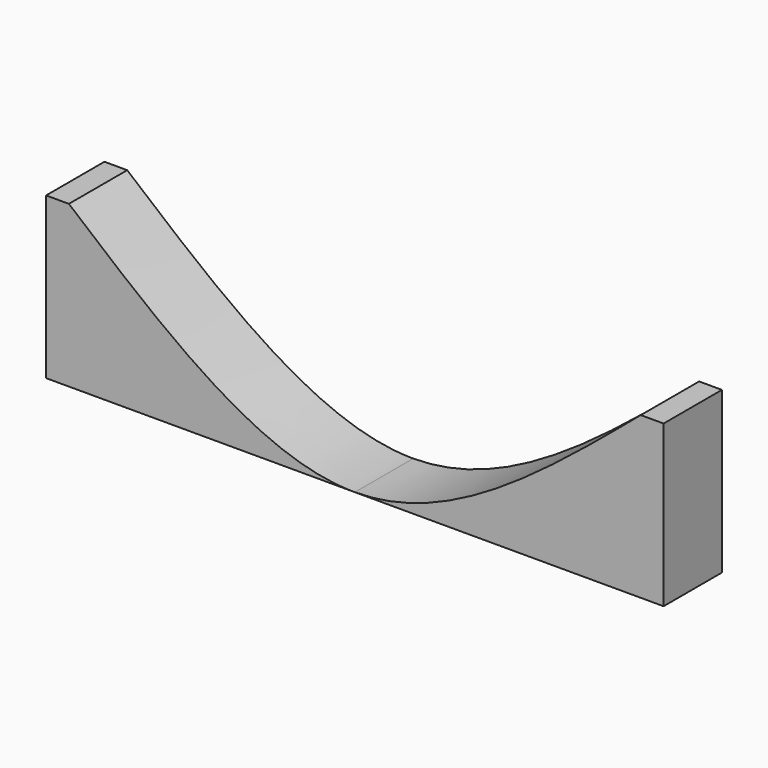
from build123d import *

# Parameters (mm, degrees)
F1_DEPTH = 25.4
F0_W     = 7.9461932182
F0_H     = 56.0344010592


with BuildPart() as f1:
    # F0 (on Front) → F1 (new body)
    with BuildSketch(Plane.XZ):
        Polygon((-99.6014922857, -2.6030649897), (-99.6014922857, 0), (-107.547685504, 0), (-107.547685504, -56.0344010592), (-99.6014922857, -56.0344010592), align=None)
        with BuildLine():
            add(Edge.make_bspline(
                [(-99.6014922857, 0), (-66.4009948572, -28.0172005296), (-33.2004974052, -56.0344010789), (4.68e-08, -56.0344010592)],
                knots=[0, 0, 0, 0, 0.5, 0.5, 0.5, 0.5], degree=3))
            Line((-99.6014922857, 0), (-99.6014922857, -2.6030649897))
            Line((-99.6014922857, -2.6030649897), (-99.6014922857, -56.0344010592))
            Line((-99.6014922857, -56.0344010592), (7.02e-08, -56.0344010592))
        make_face()
    extrude(amount=F1_DEPTH)


with BuildPart() as f1b:
    # F0 (on Front) → F1, piece 2 (new body)
    with BuildSketch(Plane.XZ):
        with BuildLine():
            add(Edge.make_bspline(
                [(4.68e-08, -56.0344010592), (33.200497452, -56.0344010394), (66.4009948572, -28.0172005296), (99.6014922857, 0)],
                knots=[0.5, 0.5, 0.5, 0.5, 1, 1, 1, 1], degree=3))
            Line((7.02e-08, -56.0344010592), (99.6014922857, -56.0344010592))
            Line((99.6014922857, -56.0344010592), (99.6014922857, 0))
        make_face()
        with Locations((103.5745888948, -28.0172005296)):
            Rectangle(F0_W, F0_H)
    extrude(amount=F1_DEPTH)


solid = Compound([f1.part, f1b.part])
